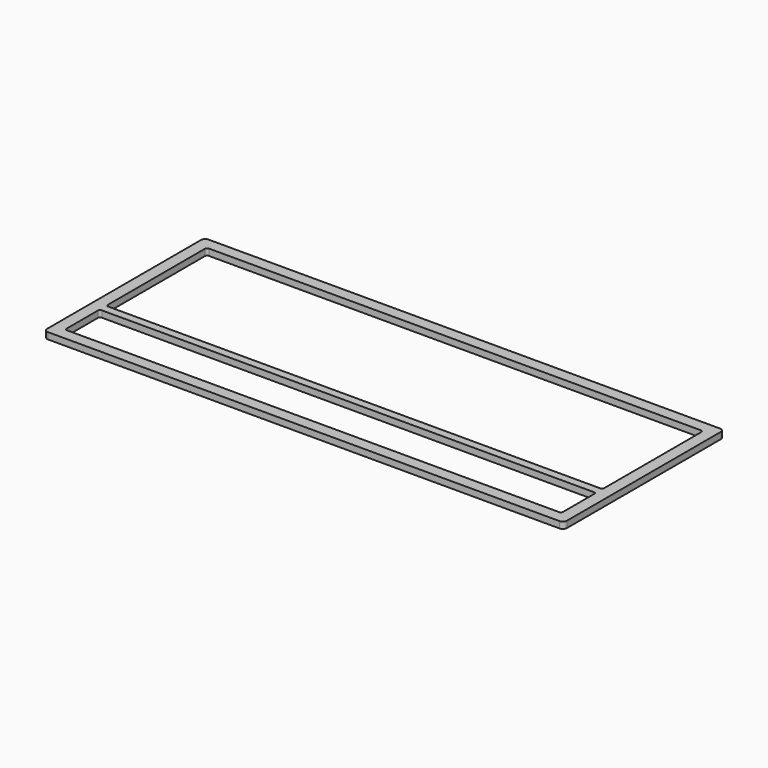
from build123d import *

# Parameters (mm, degrees)
SHAPEBINDER_R   = 1.75
PAD020_DEPTH    = 3
SKETCH057_R     = 1.75
PAD021_DEPTH    = 3
POCKET032_DEPTH = 3


with BuildPart() as body:
    # ShapeBinder → Pad020 (new body)
    with BuildSketch(Plane(origin=(-71.291879, -3.78464, 4.5), x_dir=(0, 1, 0), z_dir=(0, 0, 1))):
        with BuildLine():
            Line((44.76589, 42.508121), (44.76589, -71.291879))
            Line((44.76589, -71.291879), (46.11589, -71.291879))
            ThreePointArc((46.11589, -71.291879), (47.86589, -69.541879), (49.61589, -71.291879))
            Line((49.61589, -71.291879), (50.26589, -71.291879))
            Line((50.26589, -71.291879), (50.26589, 47.008121))
            ThreePointArc((50.26589, 47.008121), (49.680103, 48.422335), (48.26589, 49.008121))
            Line((48.26589, 49.008121), (-40.69661, 49.008121))
            ThreePointArc((-40.69661, 49.008121), (-42.110824, 48.422335), (-42.69661, 47.008121))
            Line((-42.69661, 47.008121), (-42.69661, -71.291879))
            Line((-42.69661, -71.291879), (-42.04661, -71.291879))
            ThreePointArc((-42.04661, -71.291879), (-40.29661, -69.541879), (-38.54661, -71.291879))
            Line((-38.54661, -71.291879), (-37.19661, -71.291879))
            Line((-37.19661, -71.291879), (-37.19661, 42.508121))
            ThreePointArc((-37.19661, 42.508121), (-36.903717, 43.215228), (-36.19661, 43.508121))
            Line((-36.19661, 43.508121), (-18.14661, 43.508121))
            ThreePointArc((-18.14661, 43.508121), (-17.439503, 43.215228), (-17.14661, 42.508121))
            Line((-17.14661, 42.508121), (-17.14661, -71.291879))
            Line((-17.14661, -71.291879), (-13.38411, -71.291879))
            Line((-13.38411, -71.291879), (-13.38411, 42.508121))
            ThreePointArc((-13.38411, 42.508121), (-13.091217, 43.215228), (-12.38411, 43.508121))
            Line((-12.38411, 43.508121), (43.76589, 43.508121))
            ThreePointArc((43.76589, 43.508121), (44.472997, 43.215228), (44.76589, 42.508121))
        make_face()
        with Locations((-40.29661, 38.508121)):
            Circle(SHAPEBINDER_R, mode=Mode.SUBTRACT)
        with Locations((47.86589, 38.508121)):
            Circle(SHAPEBINDER_R, mode=Mode.SUBTRACT)
    extrude(amount=PAD020_DEPTH)

    # Sketch057 (on Face26 of Pad020) → Pad021 (join)
    with BuildSketch(Plane.XY.offset(7.5)):
        with Locations((-109.8, -44.08125)):
            Circle(SKETCH057_R)
        with Locations((-109.8, 44.08125)):
            Circle(SKETCH057_R)
        with BuildLine():
            ThreePointArc((0, 45.83125), (-1.75, 44.08125), (0, 42.33125))
            Line((0, 45.83125), (0, 42.33125))
        make_face()
        with BuildLine():
            ThreePointArc((0, -42.33125), (-1.75, -44.08125), (0, -45.83125))
            Line((0, -45.83125), (0, -42.33125))
        make_face()
    extrude(amount=-PAD021_DEPTH)

    # Sketch058 (on Face20 of Pad021) → Pocket032 (cut)
    with BuildSketch(Plane.XY.offset(7.5)):
        with BuildLine():
            ThreePointArc((-118.3, 48.48125), (-121.128427, 47.309677), (-122.3, 44.48125))
            Line((-122.3, -44.48125), (-122.3, 44.48125))
            ThreePointArc((-122.3, -44.48125), (-121.128427, -47.309677), (-118.3, -48.48125))
            Line((2, -48.48125), (-118.3, -48.48125))
            Line((2, 48.48125), (2, -48.48125))
            Line((-118.3, 48.48125), (2, 48.48125))
        make_face()
        with BuildLine():
            ThreePointArc((-118.3, 46.38125), (-119.643503, 45.824753), (-120.2, 44.48125))
            Line((-120.2, 44.48125), (-120.2, -44.48125))
            ThreePointArc((-120.2, -44.48125), (-119.643503, -45.824753), (-118.3, -46.38125))
            Line((-118.3, -46.38125), (0, -46.38125))
            Line((0, -46.38125), (0, 46.38125))
            Line((0, 46.38125), (-118.3, 46.38125))
        make_face(mode=Mode.SUBTRACT)
    extrude(amount=-POCKET032_DEPTH, mode=Mode.SUBTRACT)


with BuildPart() as part_mirroring003:
    # Part__Mirroring003: instance of Body
    add(body.part.mirror(Plane(origin=(0, 0, 0), x_dir=(0, -1, 0), z_dir=(1, 0, 0))))


with BuildPart() as case_inlay:
    # Fusion003 base: copy of Body
    add(body.part)

    # Fusion003: union Part__Mirroring003
    add(part_mirroring003.part)


solid = case_inlay.part
